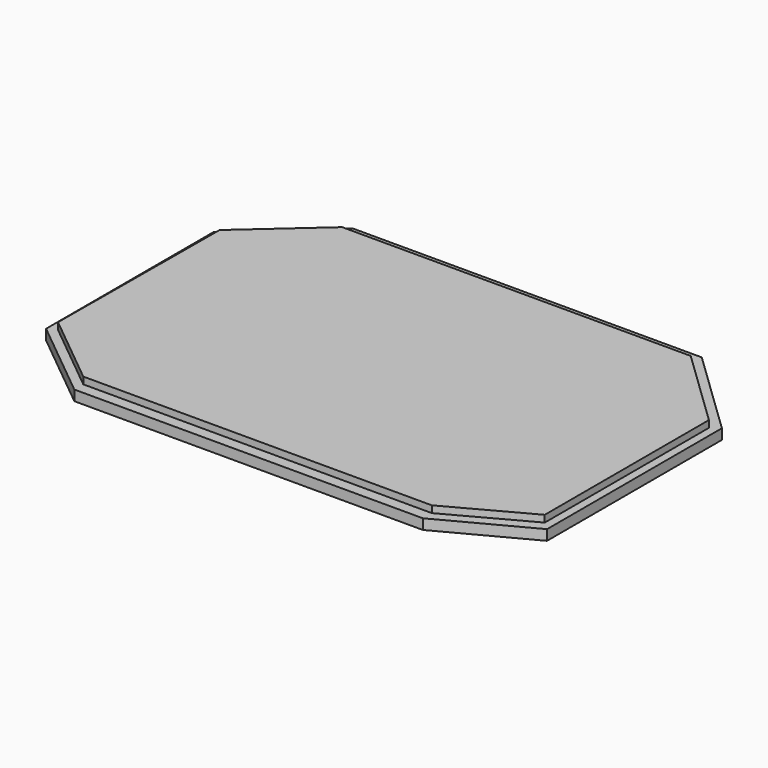
from build123d import *

# Parameters (mm, degrees)
F0_W     = 101.6
F0_H     = 94.322458
F1_DEPTH = 5
F0_H_2   = 4.017089
F0_H_3   = 3.260453
F2_DEPTH = 3


with BuildPart() as f1:
    # F0 (on Top) → F1 (new body)
    with BuildSketch(Plane.XY):
        Polygon((-50.8, -47.539547), (-50.8, 46.782911), (-71.69123, 28.25832), (-72.031133, -30.204607), align=None)
        with Locations((0, -0.378318)):
            Rectangle(F0_W, F0_H)
        Polygon((73.786288, 24.689363), (50.8, 46.782911), (50.8, -47.539547), (73.786288, -35.133168), align=None)
    extrude(amount=F1_DEPTH)

    # F0 (on Top) → F2 (join)
    with BuildSketch(Plane.XY):
        Polygon((-50.8, 46.782911), (-50.8, 50.8), (-74.547097, 29.664359), (-74.547097, -31.410809), (-50.8, -50.8), (-50.8, -47.539547), (-72.031133, -30.204607), (-71.69123, 28.25832), align=None)
        with Locations((0, 48.791455)):
            Rectangle(F0_W, F0_H_2)
        Polygon((76.217584, 26.386153), (50.8, 50.8), (50.8, 46.782911), (73.786288, 24.689363), (73.786288, -35.133168), (50.8, -47.539547), (50.8, -50.8), (76.217584, -37.332729), align=None)
        with Locations((0, -49.169773)):
            Rectangle(F0_W, F0_H_3)
    extrude(amount=F2_DEPTH)


solid = f1.part
